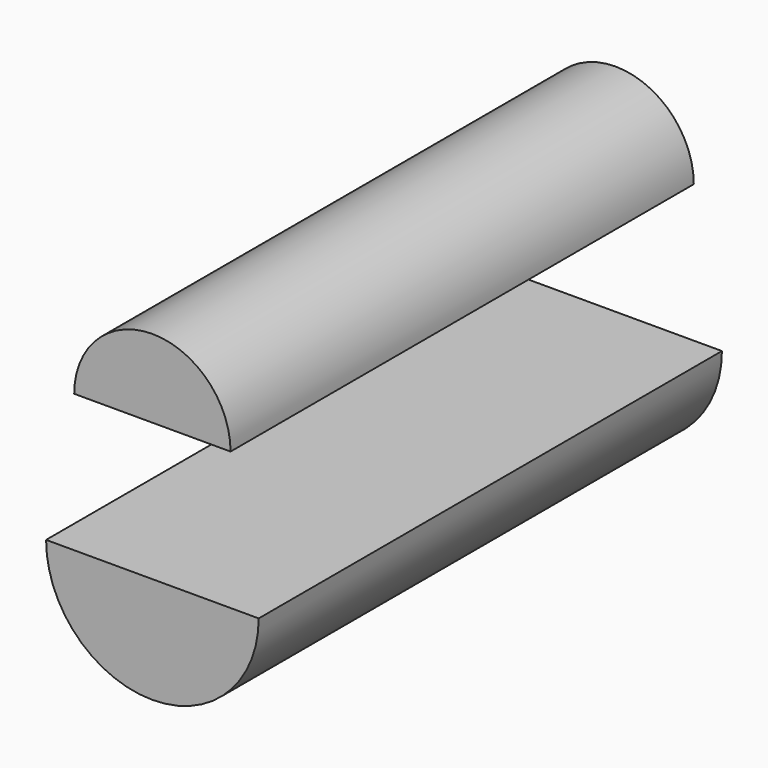
from build123d import *

# Parameters (mm, degrees)
F1_DEPTH = 127


with BuildPart() as f1:
    # F0 (on Front) → F1 (new body)
    with BuildSketch(Plane.XZ):
        with BuildLine():
            Line((23.3164, -30.208113), (-23.3164, -30.208113))
            ThreePointArc((-23.3164, -30.208113), (0, -53.524513), (23.3164, -30.208113))
        make_face()
        with BuildLine():
            ThreePointArc((17.146846, 0), (0, 17.146846), (-17.146846, 0))
            Line((-17.146846, 0), (17.146846, 0))
        make_face()
    extrude(amount=F1_DEPTH)


solid = f1.part
